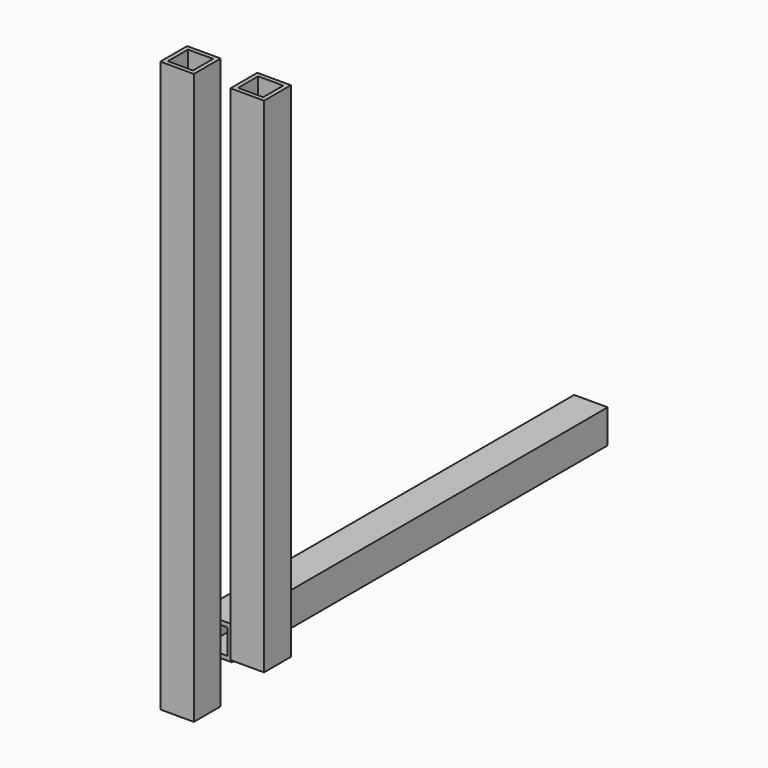
from build123d import *

# Parameters (mm, degrees)
F0_W     = 25.4
F0_H     = 431.8
F1_DEPTH = 25.4
F0_H_2   = 381
F2_T     = -3.175
F2_2_T   = -3.175
F3_W     = 25.4
F3_H     = 355.6
F4_DEPTH = 25.4
F5_T     = -3.175


with BuildPart() as f1:
    # F0 (on Front) → F1 (new body)
    with BuildSketch(Plane.XZ):
        with Locations((-18.5653362423, 195.6893682097)):
            Rectangle(F0_W, F0_H)
    extrude(amount=F1_DEPTH)

    # F2
    f2_openings = [f1.faces().sort_by_distance(p)[0] for p in [
        (-18.565336, -12.7, 411.589368),
        (-18.565336, -12.7, -20.210632),
    ]]
    offset(amount=F2_T, openings=f2_openings)


with BuildPart() as f1b:
    # F0 (on Front) → F1, piece 2 (new body)
    with BuildSketch(Plane.XZ):
        with Locations((34.5637455255, 220.562649399)):
            Rectangle(F0_W, F0_H_2)
    extrude(amount=F1_DEPTH)

    # F2#2
    f2_2_openings = [f1b.faces().sort_by_distance(p)[0] for p in [
        (34.563746, -12.7, 411.062649),
        (34.563746, -12.7, 30.062649),
    ]]
    offset(amount=F2_2_T, openings=f2_2_openings)


with BuildPart() as f4:
    # F3 (on Top) → F4 (new body)
    with BuildSketch(Plane.XY):
        with Locations((-24.4082328863, 195.701378429)):
            Rectangle(F3_W, F3_H)
    extrude(amount=F4_DEPTH)

    # F5
    f5_openings = [f4.faces().sort_by_distance(p)[0] for p in [
        (-24.408233, 373.501378, 12.7),
        (-24.408233, 17.901378, 12.7),
    ]]
    offset(amount=F5_T, openings=f5_openings)


solid = Compound([f1.part, f1b.part, f4.part])
